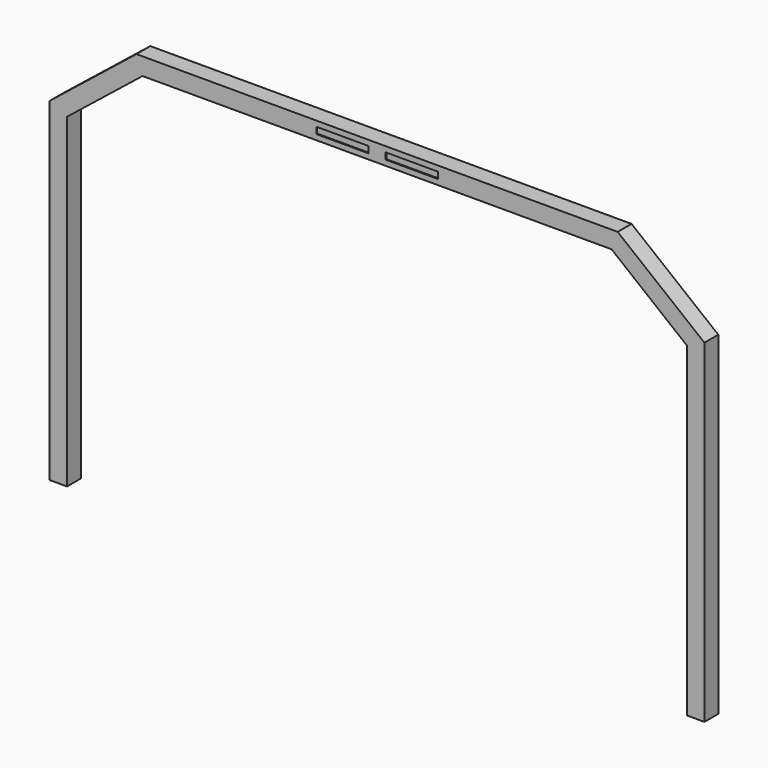
from build123d import *

# Parameters (mm, degrees)
F1_DEPTH = 50.8
F2_W     = 152.4
F2_H     = 19.05
F3_DEPTH = 3.175


with BuildPart() as f1:
    # F0 (on Front) → F1 (new body)
    with BuildSketch(Plane.XZ):
        Polygon((958.85, 387.35), (704.85, 590.55), (-704.85, 590.55), (-958.85, 387.35), (-958.85, -590.55), (-908.05, -590.55), (-908.05, 362.934258), (-687.030322, 539.75), (687.030322, 539.75), (908.05, 362.934258), (908.05, -590.55), (958.85, -590.55), align=None)
    extrude(amount=F1_DEPTH)

    # F2 (on face) → F3 (cut)
    with BuildSketch(Plane.XZ.offset(50.8)):
        with Locations((-101.6, 565.15)):
            Rectangle(F2_W, F2_H)
        with Locations((101.6, 565.15)):
            Rectangle(F2_W, F2_H)
    extrude(amount=-F3_DEPTH, mode=Mode.SUBTRACT)


solid = f1.part
